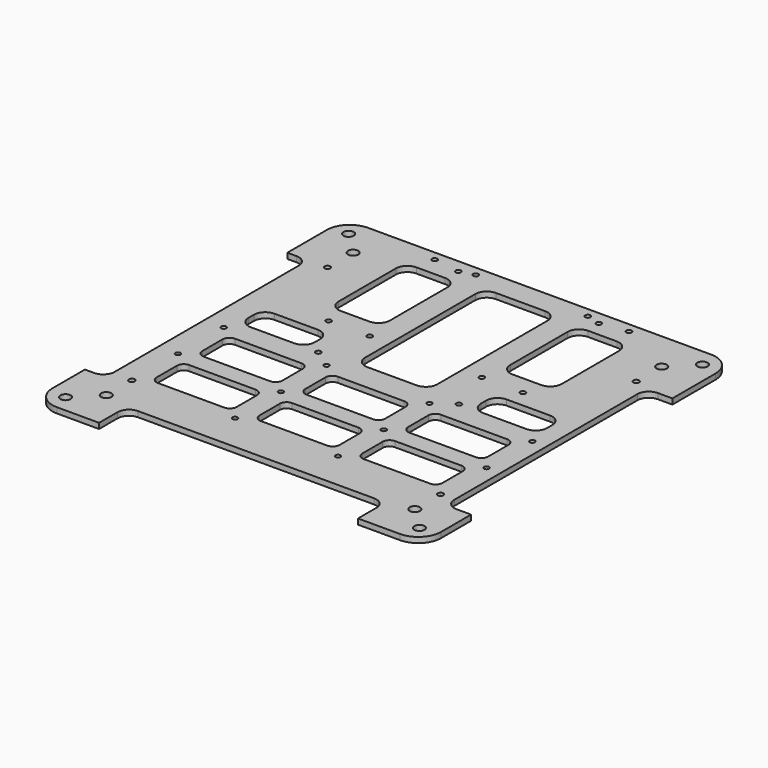
from build123d import *

# Parameters (mm, degrees)
F0_W     = 170
F0_H     = 170
F0_R     = 2.25
F0_R_2   = 1.25
F0_R_3   = 1.15
F1_DEPTH = 2.4
F2_R     = 10
F3_R     = 1.1
F4_DEPTH = 25


with BuildPart() as f1:
    # F0 (on Top) → F1 (new body)
    with BuildSketch(Plane.XY):
        Rectangle(F0_W, F0_H)
        with Locations((-77.372583, -77.372583)):
            Circle(F0_R, mode=Mode.SUBTRACT)
        with Locations((-67.473088, -67.473088)):
            Circle(F0_R, mode=Mode.SUBTRACT)
        with Locations((-67.5, -53.5)):
            Circle(F0_R_2, mode=Mode.SUBTRACT)
        with Locations((77.372583, -77.372583)):
            Circle(F0_R, mode=Mode.SUBTRACT)
        with Locations((67.473088, -67.473088)):
            Circle(F0_R, mode=Mode.SUBTRACT)
        with Locations((67.5, -53.5)):
            Circle(F0_R_2, mode=Mode.SUBTRACT)
        with Locations((-42.50304, 22.830698)):
            Circle(F0_R_3, mode=Mode.SUBTRACT)
        with Locations((-30.75, 2.540837)):
            Circle(F0_R_3, mode=Mode.SUBTRACT)
        with Locations((-24.5, 22.830698)):
            Circle(F0_R_3, mode=Mode.SUBTRACT)
        with Locations((-67.5, 53.5)):
            Circle(F0_R_2, mode=Mode.SUBTRACT)
        with Locations((-67.473088, 67.473088)):
            Circle(F0_R, mode=Mode.SUBTRACT)
        with Locations((-77.372583, 77.372583)):
            Circle(F0_R, mode=Mode.SUBTRACT)
        with Locations((-42.50304, 80.830698)):
            Circle(F0_R_3, mode=Mode.SUBTRACT)
        with Locations((-30.75, 79.040837)):
            Circle(F0_R_3, mode=Mode.SUBTRACT)
        with Locations((-24.5, 80.830698)):
            Circle(F0_R_3, mode=Mode.SUBTRACT)
        with Locations((30.75, 2.540837)):
            Circle(F0_R_3, mode=Mode.SUBTRACT)
        with Locations((24.5, 22.830698)):
            Circle(F0_R_3, mode=Mode.SUBTRACT)
        with Locations((42.50304, 22.830698)):
            Circle(F0_R_3, mode=Mode.SUBTRACT)
        with Locations((30.75, 79.040837)):
            Circle(F0_R_3, mode=Mode.SUBTRACT)
        with Locations((24.5, 80.830698)):
            Circle(F0_R_3, mode=Mode.SUBTRACT)
        with Locations((67.5, 53.5)):
            Circle(F0_R_2, mode=Mode.SUBTRACT)
        with Locations((42.50304, 80.830698)):
            Circle(F0_R_3, mode=Mode.SUBTRACT)
        with Locations((67.473088, 67.473088)):
            Circle(F0_R, mode=Mode.SUBTRACT)
        with Locations((77.372583, 77.372583)):
            Circle(F0_R, mode=Mode.SUBTRACT)
    extrude(amount=F1_DEPTH)

    # F2
    f2_edges = [f1.edges().sort_by_distance(p)[0] for p in [
        (-85, 85, 1.2),
        (85, 85, 1.2),
        (85, -85, 1.2),
        (-85, -85, 1.2),
    ]]
    fillet(f2_edges, radius=F2_R)

    # F3 (on Top) → F4 (cut)
    with BuildSketch(Plane.XY):
        with Locations((-67.476898, -53.290639)):
            Circle(F3_R)
        with Locations((-67.476898, -28.290639)):
            Circle(F3_R)
        with BuildLine():
            Line((-30.247526, -32.409012), (-59.247805, -32.409012))
            ThreePointArc((-59.247805, -32.409012), (-61.369126, -33.287692), (-62.247805, -35.409012))
            Line((-62.247805, -35.409012), (-62.247805, -46.479324))
            ThreePointArc((-62.247805, -46.479324), (-61.369126, -48.600645), (-59.247805, -49.479324))
            Line((-59.247805, -49.479324), (-30.247526, -49.479324))
            ThreePointArc((-30.247526, -49.479324), (-28.126205, -48.600645), (-27.247526, -46.479324))
            Line((-27.247526, -46.479324), (-27.247526, -35.409012))
            ThreePointArc((-27.247526, -35.409012), (-28.126205, -33.287692), (-30.247526, -32.409012))
        make_face()
        with BuildLine():
            Line((-27.247526, -21.479324), (-27.247526, -10.409012))
            ThreePointArc((-27.247526, -10.409012), (-28.126205, -8.287692), (-30.247526, -7.409012))
            Line((-30.247526, -7.409012), (-59.247805, -7.409012))
            ThreePointArc((-59.247805, -7.409012), (-61.369126, -8.287692), (-62.247805, -10.409012))
            Line((-62.247805, -10.409012), (-62.247805, -21.479324))
            ThreePointArc((-62.247805, -21.479324), (-61.369126, -23.600645), (-59.247805, -24.479324))
            Line((-59.247805, -24.479324), (-30.247526, -24.479324))
            ThreePointArc((-30.247526, -24.479324), (-28.126205, -23.600645), (-27.247526, -21.479324))
        make_face()
        with Locations((-67.476898, -3.290639)):
            Circle(F3_R)
        with BuildLine():
            Line((17.752474, -46.479324), (17.752474, -35.409012))
            ThreePointArc((17.752474, -35.409012), (16.873795, -33.287692), (14.752474, -32.409012))
            Line((14.752474, -32.409012), (-14.247805, -32.409012))
            ThreePointArc((-14.247805, -32.409012), (-16.369126, -33.287692), (-17.247805, -35.409012))
            Line((-17.247805, -35.409012), (-17.247805, -46.479324))
            ThreePointArc((-17.247805, -46.479324), (-16.369126, -48.600645), (-14.247805, -49.479324))
            Line((-14.247805, -49.479324), (14.752474, -49.479324))
            ThreePointArc((14.752474, -49.479324), (16.873795, -48.600645), (17.752474, -46.479324))
        make_face()
        with Locations((-22.476898, -28.290639)):
            Circle(F3_R)
        with Locations((-22.476898, -53.290639)):
            Circle(F3_R)
        with BuildLine():
            Line((17.752474, -21.479324), (17.752474, -10.409012))
            ThreePointArc((17.752474, -10.409012), (16.873795, -8.287692), (14.752474, -7.409012))
            Line((14.752474, -7.409012), (-14.247805, -7.409012))
            ThreePointArc((-14.247805, -7.409012), (-16.369126, -8.287692), (-17.247805, -10.409012))
            Line((-17.247805, -10.409012), (-17.247805, -21.479324))
            ThreePointArc((-17.247805, -21.479324), (-16.369126, -23.600645), (-14.247805, -24.479324))
            Line((-14.247805, -24.479324), (14.752474, -24.479324))
            ThreePointArc((14.752474, -24.479324), (16.873795, -23.600645), (17.752474, -21.479324))
        make_face()
        with Locations((-22.476898, -3.290639)):
            Circle(F3_R)
        with BuildLine():
            Line((62.752474, -46.479324), (62.752474, -35.409012))
            ThreePointArc((62.752474, -35.409012), (61.873795, -33.287692), (59.752474, -32.409012))
            Line((59.752474, -32.409012), (30.752195, -32.409012))
            ThreePointArc((30.752195, -32.409012), (28.630874, -33.287692), (27.752195, -35.409012))
            Line((27.752195, -35.409012), (27.752195, -46.479324))
            ThreePointArc((27.752195, -46.479324), (28.630874, -48.600645), (30.752195, -49.479324))
            Line((30.752195, -49.479324), (59.752474, -49.479324))
            ThreePointArc((59.752474, -49.479324), (61.873795, -48.600645), (62.752474, -46.479324))
        make_face()
        with Locations((22.523102, -28.290639)):
            Circle(F3_R)
        with Locations((22.523102, -53.290639)):
            Circle(F3_R)
        with BuildLine():
            Line((62.752474, -21.479324), (62.752474, -10.409012))
            ThreePointArc((62.752474, -10.409012), (61.873795, -8.287692), (59.752474, -7.409012))
            Line((59.752474, -7.409012), (30.752195, -7.409012))
            ThreePointArc((30.752195, -7.409012), (28.630874, -8.287692), (27.752195, -10.409012))
            Line((27.752195, -10.409012), (27.752195, -21.479324))
            ThreePointArc((27.752195, -21.479324), (28.630874, -23.600645), (30.752195, -24.479324))
            Line((30.752195, -24.479324), (59.752474, -24.479324))
            ThreePointArc((59.752474, -24.479324), (61.873795, -23.600645), (62.752474, -21.479324))
        make_face()
        with Locations((22.523102, -3.290639)):
            Circle(F3_R)
        with Locations((67.523102, -28.290639)):
            Circle(F3_R)
        with Locations((67.523102, -53.290639)):
            Circle(F3_R)
        with Locations((67.523102, -3.290639)):
            Circle(F3_R)
        with BuildLine():
            ThreePointArc((-75.992413, 48.397532), (-77.456879, 51.933066), (-80.992413, 53.397532))
            Line((-80.992413, 53.397532), (-120.522542, 53.397532))
            Line((-120.522542, 53.397532), (-120.522542, -57.253083))
            Line((-120.522542, -57.253083), (-80.992413, -57.253083))
            ThreePointArc((-80.992413, -57.253083), (-77.456879, -55.788617), (-75.992413, -52.253083))
            Line((-75.992413, -52.253083), (-75.992413, 48.397532))
        make_face()
        with BuildLine():
            Line((100.248456, 51.409032), (78.66842, 51.409032))
            ThreePointArc((78.66842, 51.409032), (75.132886, 49.944566), (73.66842, 46.409032))
            Line((73.66842, 46.409032), (73.66842, -53.628226))
            ThreePointArc((73.66842, -53.628226), (75.132886, -57.16376), (78.66842, -58.628226))
            Line((78.66842, -58.628226), (100.248456, -58.628226))
            Line((100.248456, -58.628226), (100.248456, 51.409032))
        make_face()
        with BuildLine():
            Line((-56.613993, -107.648559), (56.613993, -107.648559))
            Line((56.613993, -107.648559), (56.613993, -74.910757))
            ThreePointArc((56.613993, -74.910757), (55.149527, -71.375223), (51.613993, -69.910757))
            Line((51.613993, -69.910757), (-51.613993, -69.910757))
            ThreePointArc((-51.613993, -69.910757), (-55.149527, -71.375223), (-56.613993, -74.910757))
            Line((-56.613993, -74.910757), (-56.613993, -107.648559))
        make_face()
        with BuildLine():
            Line((10.787128, 74.656293), (-10.787128, 74.656293))
            ThreePointArc((-10.787128, 74.656293), (-14.322662, 73.191827), (-15.787128, 69.656293))
            Line((-15.787128, 69.656293), (-15.787128, 9.399046))
            ThreePointArc((-15.787128, 9.399046), (-14.322662, 5.863512), (-10.787128, 4.399046))
            Line((-10.787128, 4.399046), (10.787128, 4.399046))
            ThreePointArc((10.787128, 4.399046), (14.322662, 5.863512), (15.787128, 9.399046))
            Line((15.787128, 9.399046), (15.787128, 69.656293))
            ThreePointArc((15.787128, 69.656293), (14.322662, 73.191827), (10.787128, 74.656293))
        make_face()
        with BuildLine():
            ThreePointArc((-48.811566, 36.157676), (-47.3471, 32.622142), (-43.811566, 31.157676))
            Line((-43.811566, 31.157676), (-31.31088, 31.157676))
            ThreePointArc((-31.31088, 31.157676), (-27.775346, 32.622142), (-26.31088, 36.157676))
            Line((-26.31088, 36.157676), (-26.31088, 67.485473))
            ThreePointArc((-26.31088, 67.485473), (-27.775346, 71.021007), (-31.31088, 72.485473))
            Line((-31.31088, 72.485473), (-43.811566, 72.485473))
            ThreePointArc((-43.811566, 72.485473), (-47.3471, 71.021007), (-48.811566, 67.485473))
            Line((-48.811566, 67.485473), (-48.811566, 36.157676))
        make_face()
        with BuildLine():
            Line((26.31088, 67.485473), (26.31088, 36.157676))
            ThreePointArc((26.31088, 36.157676), (27.775346, 32.622142), (31.31088, 31.157676))
            Line((31.31088, 31.157676), (43.811566, 31.157676))
            ThreePointArc((43.811566, 31.157676), (47.3471, 32.622142), (48.811566, 36.157676))
            Line((48.811566, 36.157676), (48.811566, 67.485473))
            ThreePointArc((48.811566, 67.485473), (47.3471, 71.021007), (43.811566, 72.485473))
            Line((43.811566, 72.485473), (31.31088, 72.485473))
            ThreePointArc((31.31088, 72.485473), (27.775346, 71.021007), (26.31088, 67.485473))
        make_face()
        with BuildLine():
            Line((-60.2695, 2.57597), (-41.327198, 2.57597))
            ThreePointArc((-41.327198, 2.57597), (-37.791664, 4.040436), (-36.327198, 7.57597))
            Line((-36.327198, 7.57597), (-36.327198, 10.447198))
            ThreePointArc((-36.327198, 10.447198), (-37.791664, 13.982732), (-41.327198, 15.447198))
            Line((-41.327198, 15.447198), (-60.2695, 15.447198))
            ThreePointArc((-60.2695, 15.447198), (-63.805034, 13.982732), (-65.2695, 10.447198))
            Line((-65.2695, 10.447198), (-65.2695, 7.57597))
            ThreePointArc((-65.2695, 7.57597), (-63.805034, 4.040436), (-60.2695, 2.57597))
        make_face()
        with BuildLine():
            ThreePointArc((60.2695, 2.57597), (63.805034, 4.040436), (65.2695, 7.57597))
            Line((65.2695, 7.57597), (65.2695, 10.447198))
            ThreePointArc((65.2695, 10.447198), (63.805034, 13.982732), (60.2695, 15.447198))
            Line((60.2695, 15.447198), (41.327198, 15.447198))
            ThreePointArc((41.327198, 15.447198), (37.791664, 13.982732), (36.327198, 10.447198))
            Line((36.327198, 10.447198), (36.327198, 7.57597))
            ThreePointArc((36.327198, 7.57597), (37.791664, 4.040436), (41.327198, 2.57597))
            Line((41.327198, 2.57597), (60.2695, 2.57597))
        make_face()
    extrude(amount=F4_DEPTH, mode=Mode.SUBTRACT)


solid = f1.part
